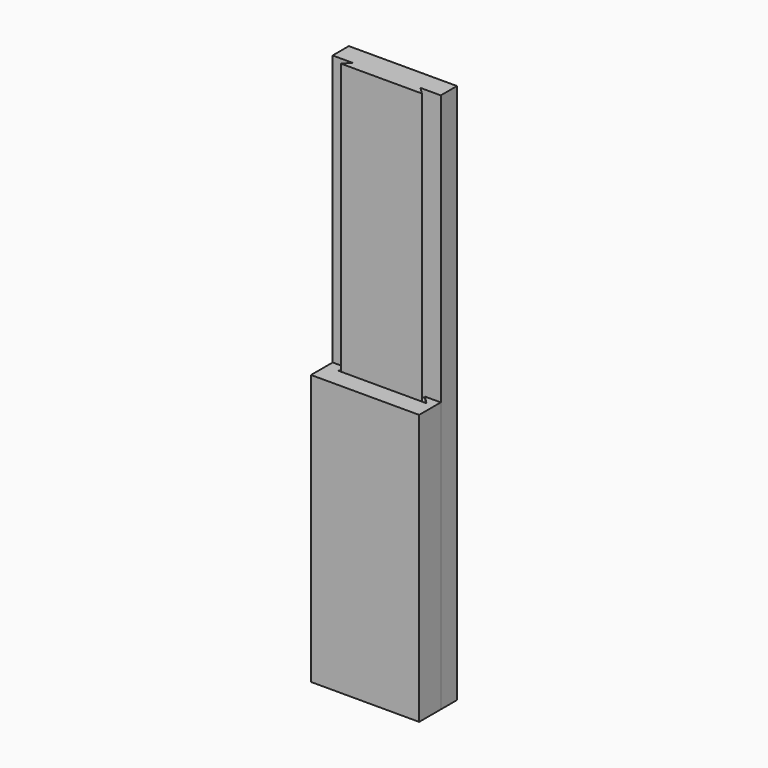
from build123d import *

# Parameters (mm, degrees)
PAD001_DEPTH = 400
PAD002_DEPTH = 198
PAD003_DEPTH = 198
PAD_DEPTH    = 200


with BuildPart() as male:
    # Sketch001 → Pad001 (new body)
    with BuildSketch(Plane.XY):
        Polygon((0, 0), (80, 0), (80, -15), (65, -15), (70, -20), (10, -20), (15, -15), (0, -15), align=None)
    extrude(amount=PAD001_DEPTH)


with BuildPart() as male_1:
    # Body001 placement: moved
    add(male.part.moved(Location((0, 35, 0))))


with BuildPart() as pressurebar:
    # Sketch002 → Pad002 (new body)
    with BuildSketch(Plane.XY):
        Polygon((0, 0), (-5, 5), (-9.242641, 5), (-4.242641, 0), align=None)
    extrude(amount=PAD002_DEPTH)


with BuildPart() as pressurebar_1:
    # Body002 placement: moved
    add(pressurebar.part.moved(Location((74.242641, 15, 1))))


with BuildPart() as obj1:
    # Sketch003 → Pad003 (new body)
    with BuildSketch(Plane.XY):
        Polygon((0, 0), (-5, 5), (-9.242641, 5), (-4.242641, 0), align=None)
    extrude(amount=PAD003_DEPTH)


with BuildPart() as obj1_1:
    # Body003 placement: moved
    add(obj1.part.moved(Location((74.242641, 15, 1))))


with BuildPart() as female:
    # Sketch → Pad (new body)
    with BuildSketch(Plane.XY):
        Polygon((0, 0), (80, 0), (80, 20), (68.242641, 20), (74.242641, 14), (9, 14), (15, 20), (0, 20), align=None)
    extrude(amount=PAD_DEPTH)

    # Cut: cut obj1
    add(obj1_1.part, mode=Mode.SUBTRACT)


solid = Compound([male_1.part, pressurebar_1.part, female.part])
